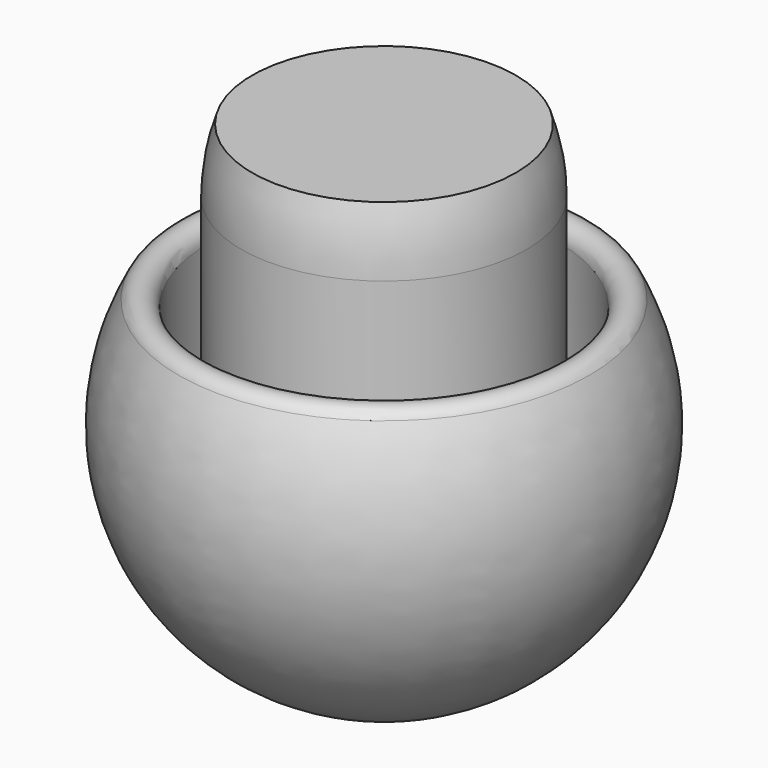
from build123d import *


with BuildPart() as f1:
    # F0 (on Front) → F1 (revolve)
    with BuildSketch(Plane.XZ):
        with BuildLine():
            Line((8.5, 17), (0, 17))
            Line((0, 17), (0, -15))
            ThreePointArc((0, -15), (12.861518, -7.718895), (13.236895, 7.05582))
            ThreePointArc((13.236895, 7.05582), (12.079481, 7.570055), (11.3, 6.57183))
            Line((11.3, 6.57183), (11.3, 0))
            Line((11.3, 0), (9.2, 0))
            Line((9.2, 0), (9.2, 12.881038))
            ThreePointArc((9.2, 12.881038), (9.023754, 14.970048), (8.5, 17))
        make_face()
    revolve(axis=Axis((0, 0, -2.022396), (0, 0, -1)))


solid = f1.part
